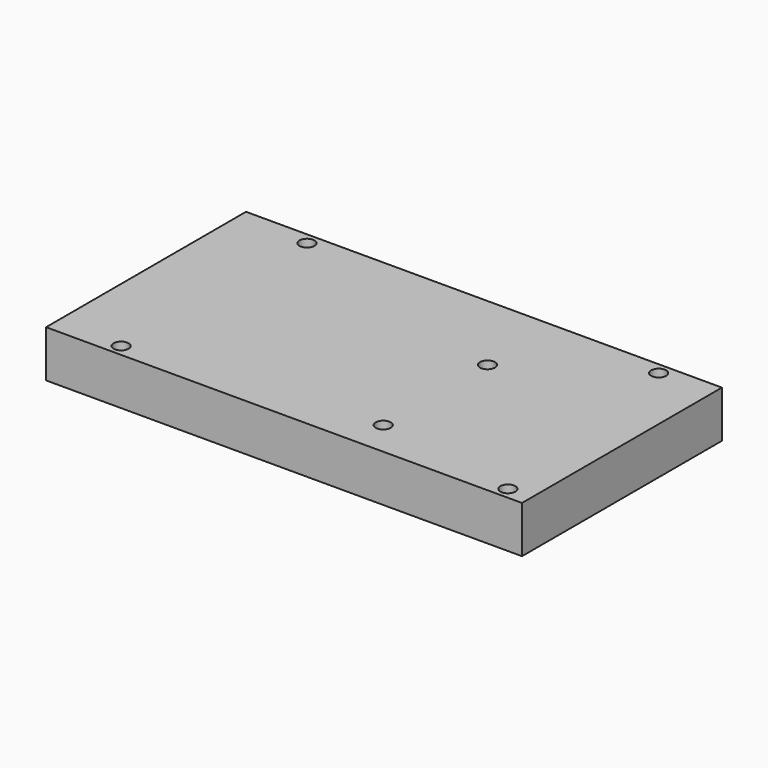
from build123d import *

# Parameters (mm, degrees)
F0_W     = 101.5
F0_H     = 53.3
F0_R     = 1.6
F1_DEPTH = 10


with BuildPart() as f1:
    # F0 (on Top) → F1 (new body)
    with BuildSketch(Plane.XY):
        Rectangle(F0_W, F0_H)
        with Locations((-36.75, -24.15)):
            Circle(F0_R, mode=Mode.SUBTRACT)
        with Locations((15.15, -19.15)):
            Circle(F0_R, mode=Mode.SUBTRACT)
        with Locations((45.75, -24.15)):
            Circle(F0_R, mode=Mode.SUBTRACT)
        with Locations((-35.75, 24.15)):
            Circle(F0_R, mode=Mode.SUBTRACT)
        with Locations((15.15, 8.65)):
            Circle(F0_R, mode=Mode.SUBTRACT)
        with Locations((39.25, 24.15)):
            Circle(F0_R, mode=Mode.SUBTRACT)
    extrude(amount=F1_DEPTH)


solid = f1.part
